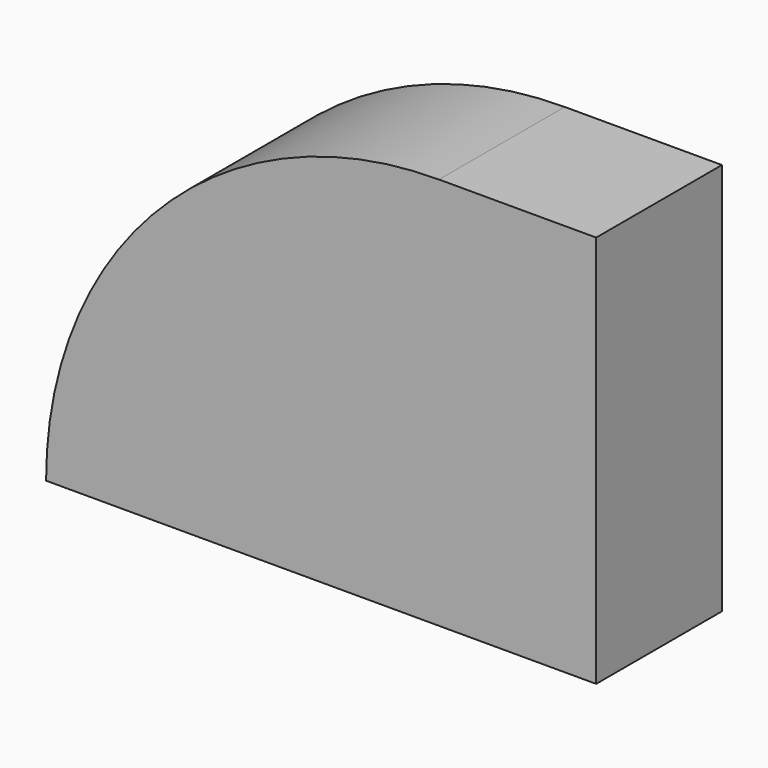
from build123d import *

# Parameters (mm, degrees)
F1_DEPTH = 120
F2_R     = 82.702624
F3_DEPTH = 25


with BuildPart() as f1:
    # F0 (on Front) → F1 (new body)
    with BuildSketch(Plane.XZ):
        with BuildLine():
            Line((-420, 0), (0, 0))
            Line((0, 0), (0, 300))
            Line((0, 300), (-120, 300))
            ThreePointArc((-120, 300), (-332.132034, 212.132034), (-420, 0))
        make_face()
    extrude(amount=F1_DEPTH)

    # F2 (on face) → F3 (cut)
    with BuildSketch(Plane.XZ.offset(120)):
        with Locations((-231.783316, 145.409659)):
            Circle(F2_R)
    extrude(amount=F3_DEPTH, mode=Mode.SUBTRACT)


solid = f1.part
